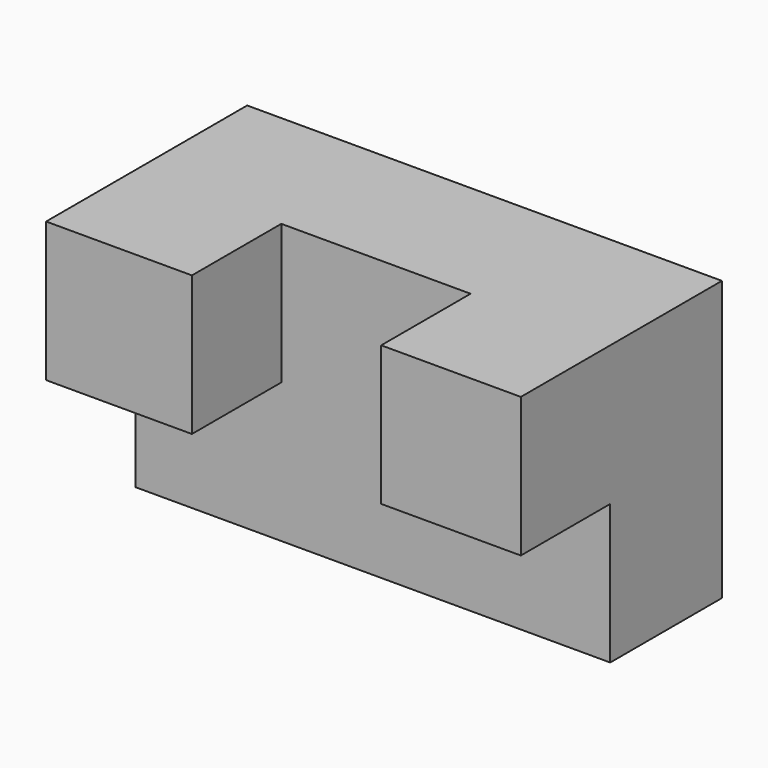
from build123d import *

# Parameters (mm, degrees)
F0_W     = 85
F0_H     = 50
F1_DEPTH = 25
F2_W     = 25
F2_H     = 25
F3_DEPTH = 20


with BuildPart() as f1:
    # F0 (on Front) → F1 (new body)
    with BuildSketch(Plane.XZ):
        with Locations((42.5, 25)):
            Rectangle(F0_W, F0_H)
    extrude(amount=F1_DEPTH)

    # F2 (on face) → F3 (join)
    with BuildSketch(Plane.XZ.offset(25)):
        Polygon((25, 50), (0, 50), (0, 27.667489), (0, 25), (26.110468, 25), (26.110468, 50), align=None)
        with Locations((72.5, 37.5)):
            Rectangle(F2_W, F2_H)
    extrude(amount=F3_DEPTH)


solid = f1.part
